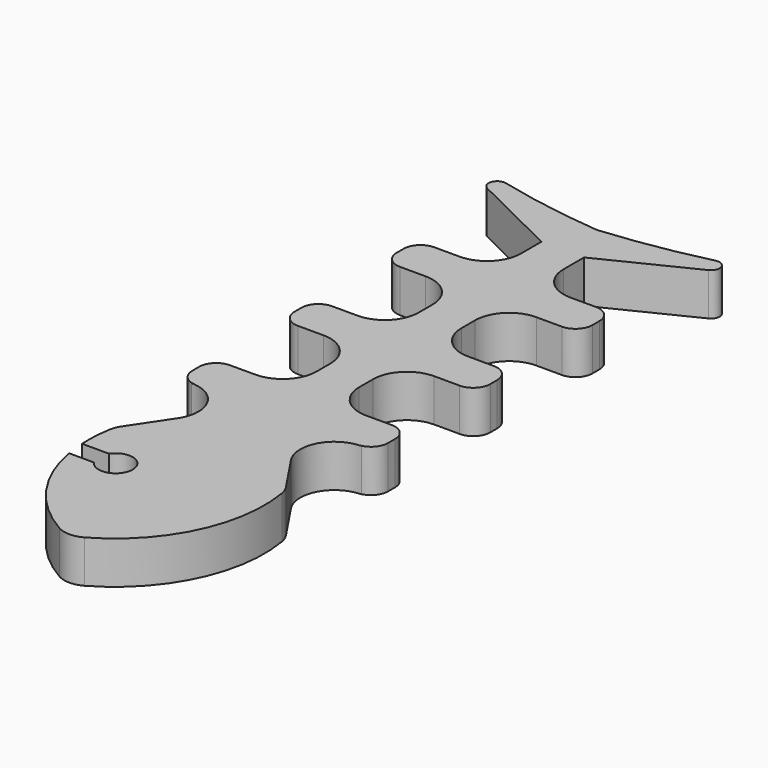
from build123d import *

# Parameters (mm, degrees)
F1_DEPTH = 5


with BuildPart() as f1:
    # F0 (on Top) → F1 (new body)
    with BuildSketch(Plane.XY):
        with BuildLine():
            Line((-6.658514, -11.222553), (-9.659046, -15.71237))
            ThreePointArc((-9.659046, -15.71237), (-9.953746, -16.27401), (-10.123783, -16.885054))
            ThreePointArc((-10.123783, -16.885054), (-10.334123, -18.760982), (-10.341643, -20.64865))
            Line((-10.341643, -20.64865), (-7.164773, -20.64865))
            ThreePointArc((-7.164773, -20.64865), (-3.5, -21.75704), (-7.164773, -22.865431))
            Line((-7.164773, -22.865431), (-10.088952, -22.865431))
            ThreePointArc((-10.088952, -22.865431), (-7.140782, -29.906834), (-1.480678, -35.028971))
            ThreePointArc((-1.480678, -35.028971), (0, -35.419834), (1.480678, -35.028971))
            ThreePointArc((1.480678, -35.028971), (8.658585, -27.317676), (10.123783, -16.885054))
            ThreePointArc((10.123783, -16.885054), (9.953746, -16.27401), (9.659046, -15.71237))
            Line((9.659046, -15.71237), (6.658514, -11.222553))
            ThreePointArc((6.658514, -11.222553), (6.456449, -7.114558), (9.984211, -5))
            Line((9.984211, -5), (9.496351, -5))
            ThreePointArc((9.496351, -5), (10.910565, -4.414214), (11.496351, -3))
            Line((11.496351, -3), (11.496351, -2))
            ThreePointArc((11.496351, -2), (10.910565, -0.585786), (9.496351, 0))
            Line((9.496351, 0), (6.5, 0))
            ThreePointArc((6.5, 0), (3.671573, 1.171573), (2.5, 4))
            Line((2.5, 4), (2.5, 6))
            ThreePointArc((2.5, 6), (3.671573, 8.828427), (6.5, 10))
            Line((6.5, 10), (9.496351, 10))
            ThreePointArc((9.496351, 10), (10.910565, 10.585786), (11.496351, 12))
            Line((11.496351, 12), (11.496351, 13))
            ThreePointArc((11.496351, 13), (10.910565, 14.414214), (9.496351, 15))
            Line((9.496351, 15), (6.5, 15))
            ThreePointArc((6.5, 15), (3.671573, 16.171573), (2.5, 19))
            Line((2.5, 19), (2.5, 21))
            ThreePointArc((2.5, 21), (3.671573, 23.828427), (6.5, 25))
            Line((6.5, 25), (9.496351, 25))
            ThreePointArc((9.496351, 25), (10.910565, 25.585786), (11.496351, 27))
            Line((11.496351, 27), (11.496351, 28))
            ThreePointArc((11.496351, 28), (10.910565, 29.414214), (9.496351, 30))
            Line((9.496351, 30), (6.5, 30))
            ThreePointArc((6.5, 30), (3.671573, 31.171573), (2.5, 34))
            Line((2.5, 34), (2.5, 37))
            Line((2.5, 37), (13, 42.171836))
            ThreePointArc((13, 42.171836), (13.498078, 43.410256), (12.321401, 44.040492))
            ThreePointArc((12.321401, 44.040492), (6.198921, 42.789454), (0, 42))
            ThreePointArc((0, 42), (-6.198921, 42.789454), (-12.321401, 44.040492))
            ThreePointArc((-12.321401, 44.040492), (-13.498078, 43.410256), (-13, 42.171836))
            Line((-13, 42.171836), (-2.5, 37))
            Line((-2.5, 37), (-2.5, 34))
            ThreePointArc((-2.5, 34), (-3.671573, 31.171573), (-6.5, 30))
            Line((-6.5, 30), (-9.496351, 30))
            ThreePointArc((-9.496351, 30), (-10.910565, 29.414214), (-11.496351, 28))
            Line((-11.496351, 28), (-11.496351, 27))
            ThreePointArc((-11.496351, 27), (-10.910565, 25.585786), (-9.496351, 25))
            Line((-9.496351, 25), (-6.5, 25))
            ThreePointArc((-6.5, 25), (-3.671573, 23.828427), (-2.5, 21))
            Line((-2.5, 21), (-2.5, 19))
            ThreePointArc((-2.5, 19), (-3.671573, 16.171573), (-6.5, 15))
            Line((-6.5, 15), (-9.496351, 15))
            ThreePointArc((-9.496351, 15), (-10.910565, 14.414214), (-11.496351, 13))
            Line((-11.496351, 13), (-11.496351, 12))
            ThreePointArc((-11.496351, 12), (-10.910565, 10.585786), (-9.496351, 10))
            Line((-9.496351, 10), (-6.5, 10))
            ThreePointArc((-6.5, 10), (-3.671573, 8.828427), (-2.5, 6))
            Line((-2.5, 6), (-2.5, 4))
            ThreePointArc((-2.5, 4), (-3.671573, 1.171573), (-6.5, 0))
            Line((-6.5, 0), (-9.496351, 0))
            ThreePointArc((-9.496351, 0), (-10.910565, -0.585786), (-11.496351, -2))
            Line((-11.496351, -2), (-11.496351, -3))
            ThreePointArc((-11.496351, -3), (-10.910565, -4.414214), (-9.496351, -5))
            Line((-9.496351, -5), (-9.984211, -5))
            ThreePointArc((-9.984211, -5), (-6.456449, -7.114558), (-6.658514, -11.222553))
        make_face()
    extrude(amount=F1_DEPTH)


solid = f1.part
